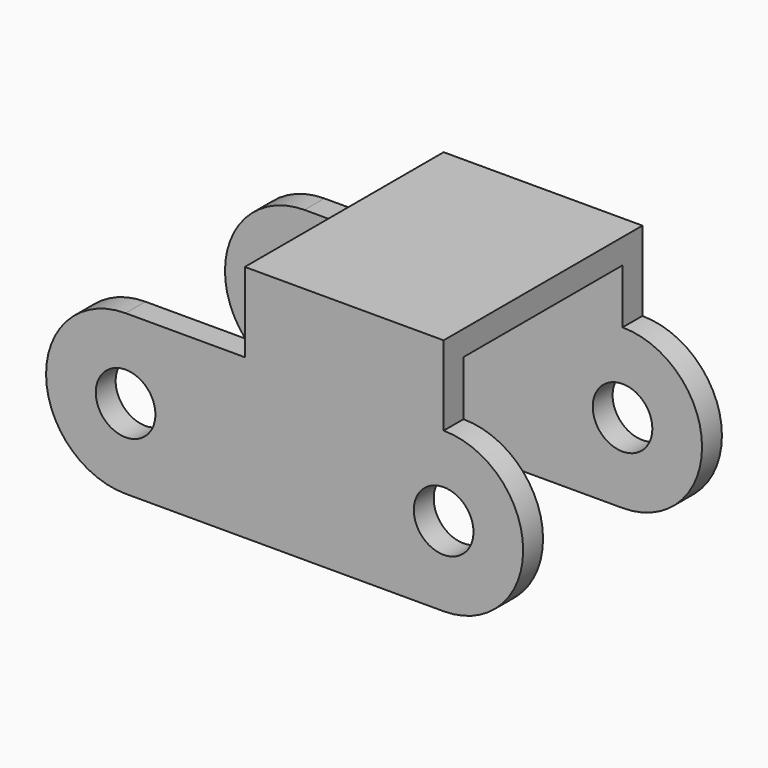
from build123d import *

# Parameters (mm, degrees)
F0_R     = 3
F1_DEPTH = 25
F2_T     = -2.5


with BuildPart() as f1:
    # F0 (on Front) → F1 (new body)
    with BuildSketch(Plane.XZ):
        with BuildLine():
            Line((0, 16), (-20, 16))
            Line((-20, 16), (-20, 8))
            Line((-20, 8), (-32, 8))
            ThreePointArc((-32, 8), (-40, 0), (-32, -8))
            Line((-32, -8), (0, -8))
            ThreePointArc((0, -8), (8, 0), (0, 8))
            Line((0, 8), (0, 16))
        make_face()
        with Locations((-32, 0)):
            Circle(F0_R, mode=Mode.SUBTRACT)
        Circle(F0_R, mode=Mode.SUBTRACT)
    extrude(amount=F1_DEPTH)

    # F2
    f2_openings = [f1.faces().sort_by_distance(p)[0] for p in [
        (-35, -12.5, 0),
        (-3, -12.5, 0),
        (-16, -12.5, -8),
        (-40, -12.5, 0),
        (8, -12.5, 0),
        (-26, -12.5, 8),
        (0, -12.5, 12),
        (-20, -12.5, 12),
    ]]
    offset(amount=F2_T, openings=f2_openings)


solid = f1.part
